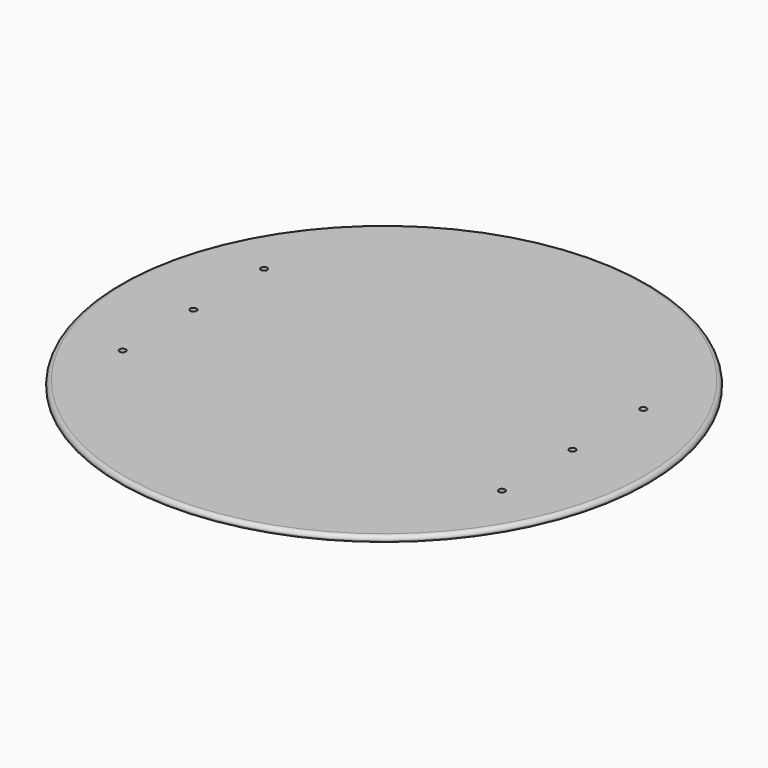
from build123d import *

# Parameters (mm, degrees)
F0_R     = 327.025
F1_DEPTH = 6.35
F3_D     = 7.9375
F5_D     = 7.9375
F6_R     = 5.08


with BuildPart() as f1:
    # F0 (on Top) → F1 (new body)
    with BuildSketch(Plane.XY):
        with Locations((-23.674974, 22.676632)):
            Circle(F0_R)
    extrude(amount=-F1_DEPTH)

    # F3 (through all)
    with Locations(Plane.XY):
        with Locations((-259.972523, 22.676632), (209.927477, 22.676632)):
            Hole(F3_D / 2)

    # F5 (through all)
    with Locations(Plane.XY):
        with Locations((-259.972523, 132.214132), (-259.972523, -86.860868), (209.927477, -86.860868), (209.927477, 132.214132)):
            Hole(F5_D / 2)

    # F6
    f6_edges = [f1.edges().sort_by_distance(p)[0] for p in [
        (-350.699974, 22.676632, 0),
    ]]
    fillet(f6_edges, radius=F6_R)


solid = f1.part
